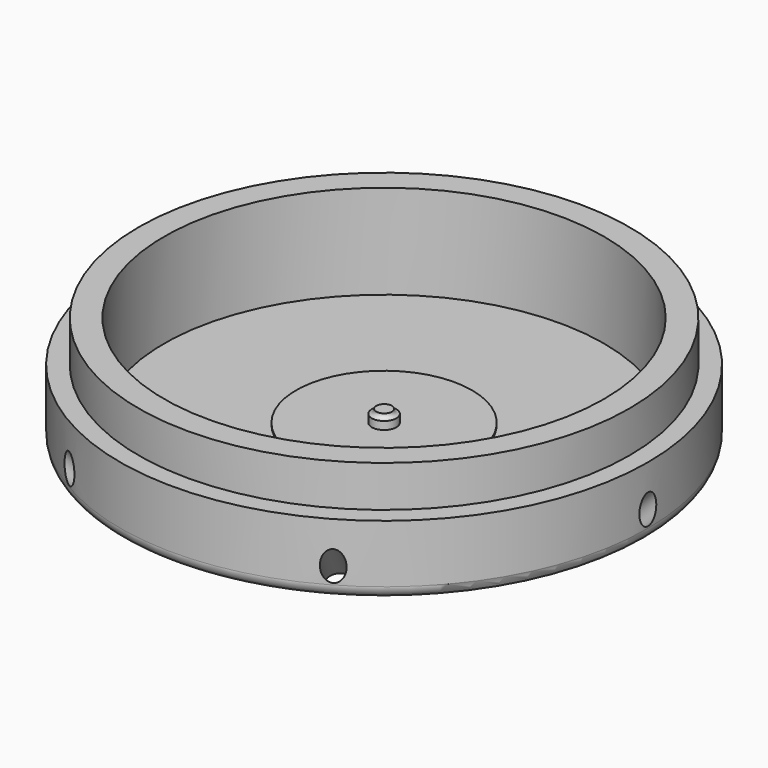
from build123d import *

# Parameters (mm, degrees)
CYLINDER012_R               = 0.45
CYLINDER012_DEPTH           = 0.8
CYLINDER003_R               = 0.7
CYLINDER003_DEPTH           = 0.55
FILLET003_R                 = 0.24
CYLINDER013_R               = 5
CYLINDER013_DEPTH           = 0.1
CYLINDER018_R               = 0.6
CYLINDER018_DEPTH           = 30
CYLINDER018_PLACEMENT_ANGLE = 45
ARRAY_COUNT                 = 6
CYLINDER010_R               = 12.5
CYLINDER010_DEPTH           = 10
CYLINDER011_R               = 13.95
CYLINDER011_DEPTH           = 2.35
CYLINDER009_R               = 14
CYLINDER009_DEPTH           = 3
CYLINDER004_R               = 0.4
CYLINDER004_DEPTH           = 2
CYLINDER016_R               = 0.4
CYLINDER016_DEPTH           = 2
CYLINDER014_R               = 0.41
CYLINDER014_DEPTH           = 0.8
CYLINDER015_R               = 0.7
CYLINDER015_DEPTH           = 0.55
FILLET004_R                 = 0.24
CYLINDER017_R               = 5
CYLINDER017_DEPTH           = 0.1
CYLINDER008_R               = 16
CYLINDER008_DEPTH           = 10
CYLINDER007_R               = 14
CYLINDER007_DEPTH           = 7
CYLINDER006_R               = 14
CYLINDER006_DEPTH           = 1
CYLINDER005_R               = 0.4
CYLINDER005_DEPTH           = 1
CYLINDER001_R               = 12.6
CYLINDER001_DEPTH           = 8
CYLINDER_R                  = 15
CYLINDER_DEPTH              = 8
CYLINDER002_R               = 15
CYLINDER002_DEPTH           = 1
FILLET_R                    = 0.7
FILLET001_R                 = 0.7
CHAMFER_SIZE                = 0.8


with BuildPart() as cylinder012:
    # Cylinder012 → Cylinder012 (new body)
    with BuildSketch(Plane.XY.offset(1)):
        Circle(CYLINDER012_R)
    extrude(amount=CYLINDER012_DEPTH)


with BuildPart() as fillet003:
    # Cylinder003 → Cylinder003 (new body)
    with BuildSketch(Plane.XY.offset(1)):
        Circle(CYLINDER003_R)
    extrude(amount=CYLINDER003_DEPTH)

    # Fusion003: union Cylinder012
    add(cylinder012.part)

    # Fillet003
    fillet003_edges = [fillet003.edges().sort_by_distance(p)[0] for p in [
        (-0.45, 0, 1.55),
    ]]
    fillet(fillet003_edges, radius=FILLET003_R)


with BuildPart() as cylinder013:
    # Cylinder013 → Cylinder013 (new body)
    with BuildSketch(Plane.XY.offset(1)):
        Circle(CYLINDER013_R)
    extrude(amount=CYLINDER013_DEPTH)


with BuildPart() as array:
    # Cylinder018 → Cylinder018 (new body)
    with BuildSketch(Plane.XY):
        Circle(CYLINDER018_R)
    extrude(amount=CYLINDER018_DEPTH)


with BuildPart() as array_1:
    # Cylinder018 placement: moved
    add(array.part.moved(Location((0, 0, -4.5))).rotate(Axis((0, 0, -4.5), (0, 1, 0)), CYLINDER018_PLACEMENT_ANGLE))

    # Array: Array ×6 about axis
    array_axis = Axis((0, 0, 0), (0, 0, 1))


with BuildPart() as array_2:
    add(array_1.part)
    for i in range(1, ARRAY_COUNT):
        add(array_1.part.rotate(array_axis, i * 360 / ARRAY_COUNT))


with BuildPart() as array_3:
    # Array placement: moved
    add(array_2.part.moved(Location((0, 0, -8.85))))


with BuildPart() as cylinder010:
    # Cylinder010 → Cylinder010 (new body)
    with BuildSketch(Plane.XY):
        Circle(CYLINDER010_R)
    extrude(amount=CYLINDER010_DEPTH)


with BuildPart() as cylinder011:
    # Cylinder011 → Cylinder011 (new body)
    with BuildSketch(Plane.XY.offset(4)):
        Circle(CYLINDER011_R)
    extrude(amount=CYLINDER011_DEPTH)


with BuildPart() as cut006:
    # Cylinder009 → Cylinder009 (new body)
    with BuildSketch(Plane.XY.offset(1)):
        Circle(CYLINDER009_R)
    extrude(amount=CYLINDER009_DEPTH)

    # Fusion002: union Cylinder011
    add(cylinder011.part)

    # Cut006: cut Cylinder010
    add(cylinder010.part, mode=Mode.SUBTRACT)


with BuildPart() as cylinder004:
    # Cylinder004 → Cylinder004 (new body)
    with BuildSketch(Plane.XY.offset(1)):
        Circle(CYLINDER004_R)
    extrude(amount=CYLINDER004_DEPTH)


with BuildPart() as cylinder016:
    # Cylinder016 → Cylinder016 (new body)
    with BuildSketch(Plane.XY.offset(1)):
        Circle(CYLINDER016_R)
    extrude(amount=CYLINDER016_DEPTH)


with BuildPart() as cylinder014:
    # Cylinder014 → Cylinder014 (new body)
    with BuildSketch(Plane.XY.offset(1)):
        Circle(CYLINDER014_R)
    extrude(amount=CYLINDER014_DEPTH)


with BuildPart() as fillet004:
    # Cylinder015 → Cylinder015 (new body)
    with BuildSketch(Plane.XY.offset(1)):
        Circle(CYLINDER015_R)
    extrude(amount=CYLINDER015_DEPTH)

    # Fusion001: union Cylinder014
    add(cylinder014.part)

    # Fillet004
    fillet004_edges = [fillet004.edges().sort_by_distance(p)[0] for p in [
        (-0.41, 0, 1.55),
    ]]
    fillet(fillet004_edges, radius=FILLET004_R)


with BuildPart() as cut010:
    # Cylinder017 → Cylinder017 (new body)
    with BuildSketch(Plane.XY.offset(1)):
        Circle(CYLINDER017_R)
    extrude(amount=CYLINDER017_DEPTH)

    # Fusion004: union Fillet004
    add(fillet004.part)

    # Cut009: cut Cylinder016
    add(cylinder016.part, mode=Mode.SUBTRACT)

    # Cut010: cut Cylinder004
    add(cylinder004.part, mode=Mode.SUBTRACT)


with BuildPart() as cylinder008:
    # Cylinder008 → Cylinder008 (new body)
    with BuildSketch(Plane.XY.offset(4)):
        Circle(CYLINDER008_R)
    extrude(amount=CYLINDER008_DEPTH)


with BuildPart() as cylinder007:
    # Cylinder007 → Cylinder007 (new body)
    with BuildSketch(Plane.XY.offset(1)):
        Circle(CYLINDER007_R)
    extrude(amount=CYLINDER007_DEPTH)


with BuildPart() as cylinder006:
    # Cylinder006 → Cylinder006 (new body)
    with BuildSketch(Plane.XY.offset(7)):
        Circle(CYLINDER006_R)
    extrude(amount=CYLINDER006_DEPTH)


with BuildPart() as cylinder005:
    # Cylinder005 → Cylinder005 (new body)
    with BuildSketch(Plane.XY):
        Circle(CYLINDER005_R)
    extrude(amount=CYLINDER005_DEPTH)


with BuildPart() as cylinder001:
    # Cylinder001 → Cylinder001 (new body)
    with BuildSketch(Plane.XY):
        Circle(CYLINDER001_R)
    extrude(amount=CYLINDER001_DEPTH)


with BuildPart() as cut:
    # Cylinder → Cylinder (new body)
    with BuildSketch(Plane.XY):
        Circle(CYLINDER_R)
    extrude(amount=CYLINDER_DEPTH)

    # Cut: cut Cylinder001
    add(cylinder001.part, mode=Mode.SUBTRACT)


with BuildPart() as cut013:
    # Cylinder002 → Cylinder002 (new body)
    with BuildSketch(Plane.XY):
        Circle(CYLINDER002_R)
    extrude(amount=CYLINDER002_DEPTH)

    # Fusion: union Cut
    add(cut.part)

    # Cut001: cut Cylinder005
    add(cylinder005.part, mode=Mode.SUBTRACT)

    # Cut003: cut Cylinder006
    add(cylinder006.part, mode=Mode.SUBTRACT)

    # Fillet
    fillet_edges = [cut013.edges().sort_by_distance(p)[0] for p in [
        (-15, 0, 8),
    ]]
    fillet(fillet_edges, radius=FILLET_R)

    # Fillet001
    fillet001_edges = [cut013.edges().sort_by_distance(p)[0] for p in [
        (-15, 0, 0),
    ]]
    fillet(fillet001_edges, radius=FILLET001_R)

    # Chamfer
    chamfer_edges = [cut013.edges().sort_by_distance(p)[0] for p in [
        (-0.4, 0, 0),
    ]]
    chamfer(chamfer_edges, length=CHAMFER_SIZE)

    # Cut011: cut Cylinder007
    add(cylinder007.part, mode=Mode.SUBTRACT)

    # Cut012: cut Cylinder008
    add(cylinder008.part, mode=Mode.SUBTRACT)

    # Fusion005: union Cut006, Cut010
    add(cut006.part)
    add(cut010.part)

    # Cut013: cut Array
    add(array_3.part, mode=Mode.SUBTRACT)


solid = Compound([fillet003.part, cylinder013.part, cut013.part])
